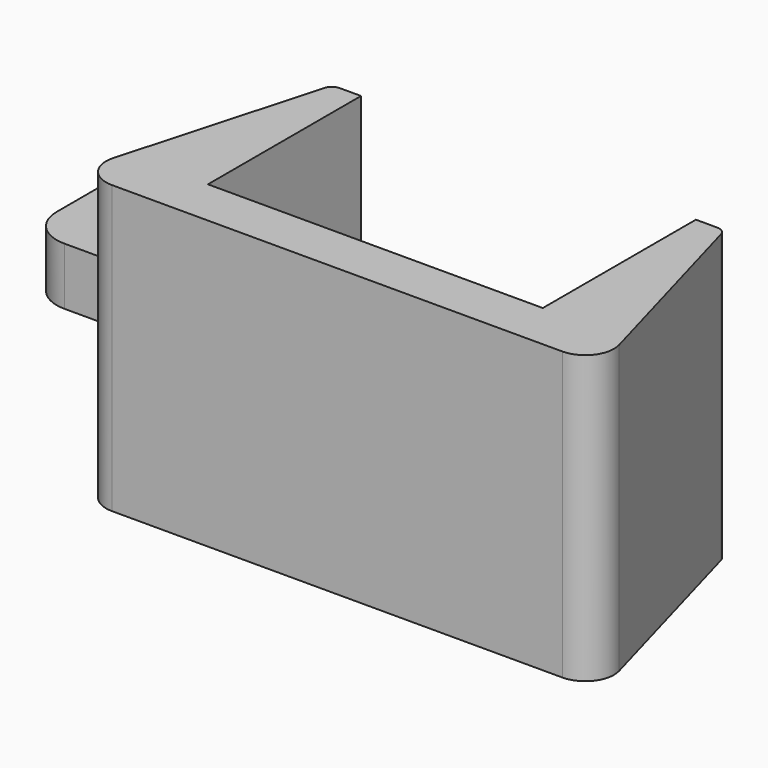
from build123d import *

# Parameters (mm, degrees)
PAD_DEPTH    = 30
SKETCH001_W  = 15
SKETCH001_H  = 6
PAD001_DEPTH = 21
SKETCH002_R  = 4
POCKET_DEPTH = 6
FILLET_R     = 4
FILLET001_R  = 3
FILLET002_R  = 1
FILLET003_R  = 1


with BuildPart() as part:
    # Sketch → Pad (new body)
    with BuildSketch(Plane.XY):
        Polygon((-17.5, 20), (-17.5, 0), (17.5, 0), (17.5, 20), (20.5, 20), (27.5, -5), (-27.5, -5), (-20.5, 20), align=None)
    extrude(amount=PAD_DEPTH)

    # Sketch001 (on Face1 of Pad) → Pad001 (join)
    with BuildSketch(Plane.YZ.offset(-17.5)):
        with Locations((10, 15)):
            Rectangle(SKETCH001_W, SKETCH001_H)
    extrude(amount=-PAD001_DEPTH)

    # Sketch002 (on Face15 of Pad001) → Pocket (cut)
    with BuildSketch(Plane.XY.offset(18)):
        with Locations((-29.8, 10)):
            Circle(SKETCH002_R)
    extrude(amount=-POCKET_DEPTH, mode=Mode.SUBTRACT)

    # Fillet
    fillet_edges = [part.edges().sort_by_distance(p)[0] for p in [
        (-38.5, 17.5, 15),
        (-38.5, 2.5, 15),
    ]]
    fillet(fillet_edges, radius=FILLET_R)

    # Fillet001
    fillet001_edges = [part.edges().sort_by_distance(p)[0] for p in [
        (-27.5, -5, 15),
        (27.5, -5, 15),
    ]]
    fillet(fillet001_edges, radius=FILLET001_R)

    # Fillet002
    fillet002_edges = [part.edges().sort_by_distance(p)[0] for p in [
        (-20.5, 20, 15),
        (20.5, 20, 15),
    ]]
    fillet(fillet002_edges, radius=FILLET002_R)

    # Fillet003
    fillet003_edges = [part.edges().sort_by_distance(p)[0] for p in [
        (-23.3, 10, 18),
        (-23.3, 10, 12),
        (-21.2, 17.5, 15),
        (-25.4, 2.5, 15),
    ]]
    fillet(fillet003_edges, radius=FILLET003_R)


solid = part.part
